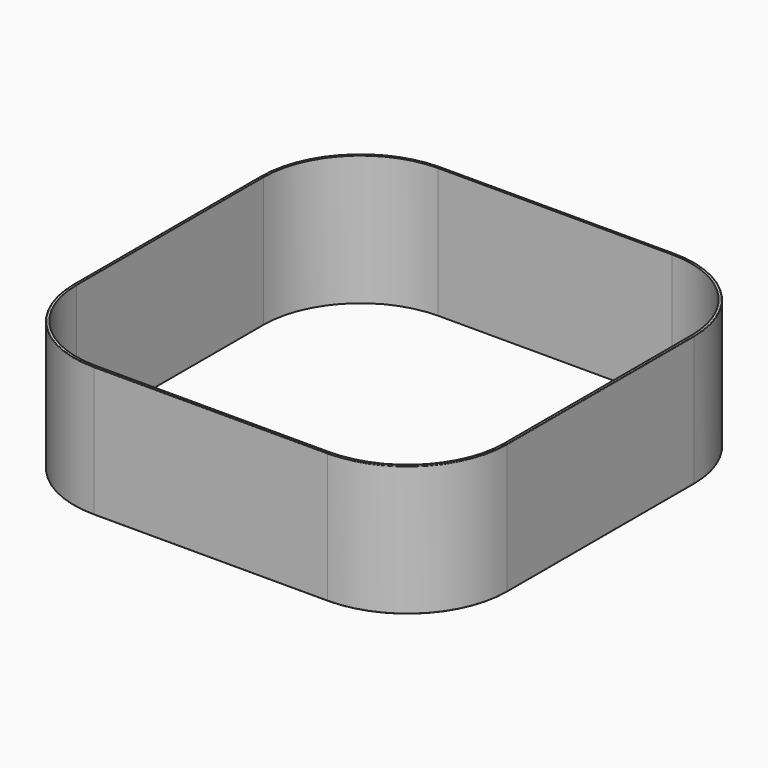
from build123d import *

# Parameters (mm, degrees)
F1_DEPTH = 150
F2_R     = 0.5


with BuildPart() as f1:
    # F0 (on Top) → F1 (new body)
    with BuildSketch(Plane.XY):
        with BuildLine():
            Line((135, 250), (-135, 250))
            ThreePointArc((-135, 250), (-216.31728, 216.31728), (-250, 135))
            Line((-250, 135), (-250, -135))
            ThreePointArc((-250, -135), (-216.31728, -216.31728), (-135, -250))
            Line((-135, -250), (135, -250))
            ThreePointArc((135, -250), (216.31728, -216.31728), (250, -135))
            Line((250, -135), (250, 135))
            ThreePointArc((250, 135), (216.31728, 216.31728), (135, 250))
        make_face()
        with BuildLine():
            ThreePointArc((-247, 135), (-214.195959, 214.195959), (-135, 247))
            Line((-135, 247), (135, 247))
            ThreePointArc((135, 247), (214.195959, 214.195959), (247, 135))
            Line((247, 135), (247, -135))
            ThreePointArc((247, -135), (214.195959, -214.195959), (135, -247))
            Line((135, -247), (-135, -247))
            ThreePointArc((-135, -247), (-214.195959, -214.195959), (-247, -135))
            Line((-247, -135), (-247, 135))
        make_face(mode=Mode.SUBTRACT)
    extrude(amount=F1_DEPTH)

    # F2
    f2_edges = [f1.edges().sort_by_distance(p)[0] for p in [
        (0, -250, 150),
        (216.31728, -216.31728, 150),
        (250, 0, 150),
        (216.31728, 216.31728, 150),
        (0, 250, 150),
        (-216.31728, 216.31728, 150),
        (-250, 0, 150),
        (-216.31728, -216.31728, 150),
        (0, -250, 0),
        (-216.31728, -216.31728, 0),
        (-250, 0, 0),
        (-216.31728, 216.31728, 0),
        (0, 250, 0),
        (216.31728, 216.31728, 0),
        (250, 0, 0),
        (216.31728, -216.31728, 0),
    ]]
    fillet(f2_edges, radius=F2_R)


solid = f1.part
